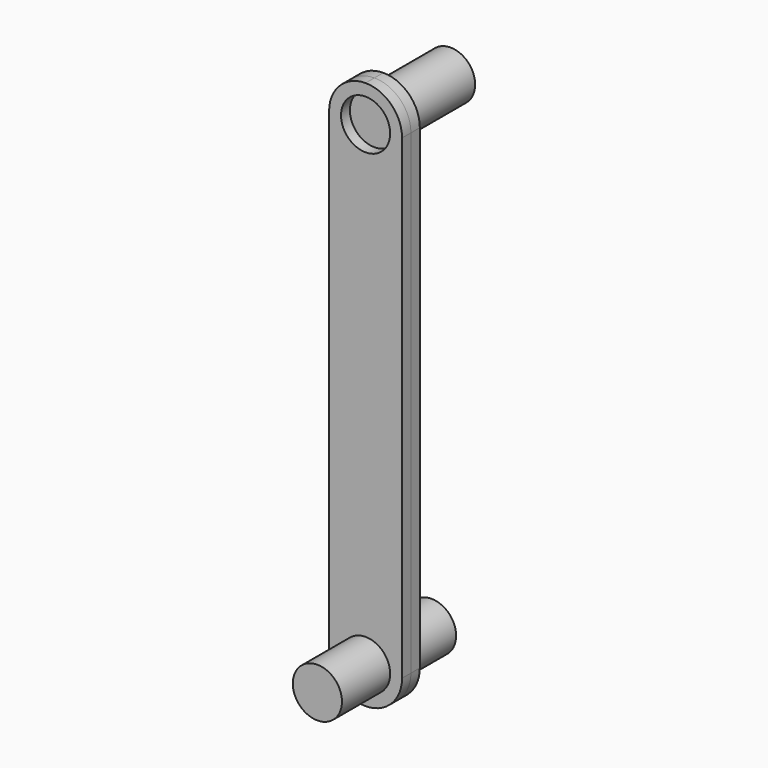
from build123d import *

# Parameters (mm, degrees)
F0_R     = 0.3937
F1_DEPTH = 0.1778
F2_DEPTH = 1.143
F3_DEPTH = 1.524
F4_SCALE = 7.5


with BuildPart() as f1:
    # F0 (on Front) → F1 (new body, symmetric)
    with BuildSketch(Plane.XZ):
        with BuildLine():
            ThreePointArc((0, 8.2042), (-0.4130917816, 8.0330917816), (-0.5842, 7.62))
            Line((-0.5842, 7.62), (-0.5842, 0))
            ThreePointArc((-0.5842, 0), (-0.4130917816, -0.4130917816), (0, -0.5842))
            ThreePointArc((0, -0.5842), (0.4130917816, -0.4130917816), (0.5842, 0))
            Line((0.5842, 0), (0.5842, 7.62))
            ThreePointArc((0.5842, 7.62), (0.4130917816, 8.0330917816), (0, 8.2042))
        make_face()
        Circle(F0_R, mode=Mode.SUBTRACT)
        with BuildLine():
            ThreePointArc((-0.3937, 7.62), (0, 8.0137), (0.3937, 7.62))
            ThreePointArc((0.3937, 7.62), (0, 7.2263), (-0.3937, 7.62))
        make_face(mode=Mode.SUBTRACT)
    extrude(amount=F1_DEPTH, both=True)

    # F0 (on Front) → F2 (join, symmetric)
    with BuildSketch(Plane.XZ):
        Circle(F0_R)
    extrude(amount=F2_DEPTH, both=True)

    # F0 (on Front) → F3 (join)
    with BuildSketch(Plane.XZ):
        with BuildLine():
            ThreePointArc((-0.3937, 7.62), (0, 7.2263), (0.3937, 7.62))
            ThreePointArc((0.3937, 7.62), (0, 8.0137), (-0.3937, 7.62))
        make_face()
    extrude(amount=-F3_DEPTH)


with BuildPart() as f1_1:
    # F4: moved
    add(f1.part.scale(F4_SCALE))


solid = f1_1.part
